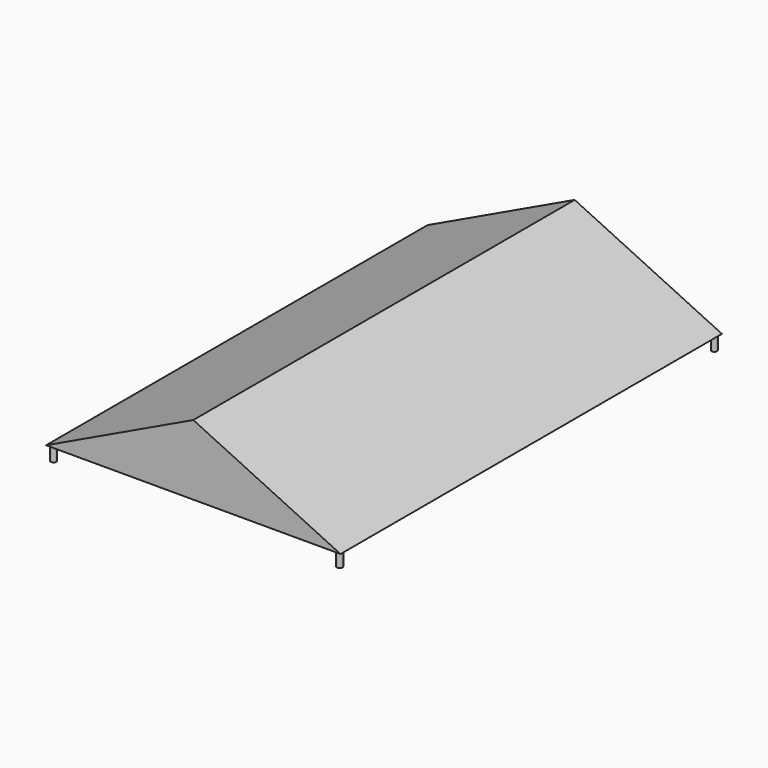
from build123d import *

# Parameters (mm, degrees)
F0_W     = 533.4
F0_H     = 863.6
F1_DEPTH = 127
F3_DEPTH = 2540
F4_T     = -6.35
F5_R     = 5.08
F6_DEPTH = 25.4


with BuildPart() as f1:
    # F0 (on Top) → F1 (new body)
    with BuildSketch(Plane.XY):
        Rectangle(F0_W, F0_H)
    extrude(amount=F1_DEPTH)

    # F2 (on face) → F3 (cut)
    with BuildSketch(Plane.XZ.offset(431.8)):
        Polygon((-266.7, 0), (0, 127), (-266.7, 127), align=None)
        Polygon((266.7, 127), (0, 127), (266.7, 0), align=None)
    extrude(amount=-F3_DEPTH, mode=Mode.SUBTRACT)

    # F4
    f4_openings = [f1.faces().sort_by_distance(p)[0] for p in [
        (0, 0, 0),
    ]]
    offset(amount=F4_T, openings=f4_openings)

    # F5 (on face) → F6 (join)
    with BuildSketch(Plane(origin=(0, 0, 0), x_dir=(1, 0, 0), z_dir=(0, 0, -1))):
        with Locations((-259.08, 424.18)):
            Circle(F5_R)
        with Locations((259.08, 424.18)):
            Circle(F5_R)
        with Locations((259.08, -424.18)):
            Circle(F5_R)
        with Locations((-259.08, -424.18)):
            Circle(F5_R)
    extrude(amount=F6_DEPTH)


solid = f1.part
